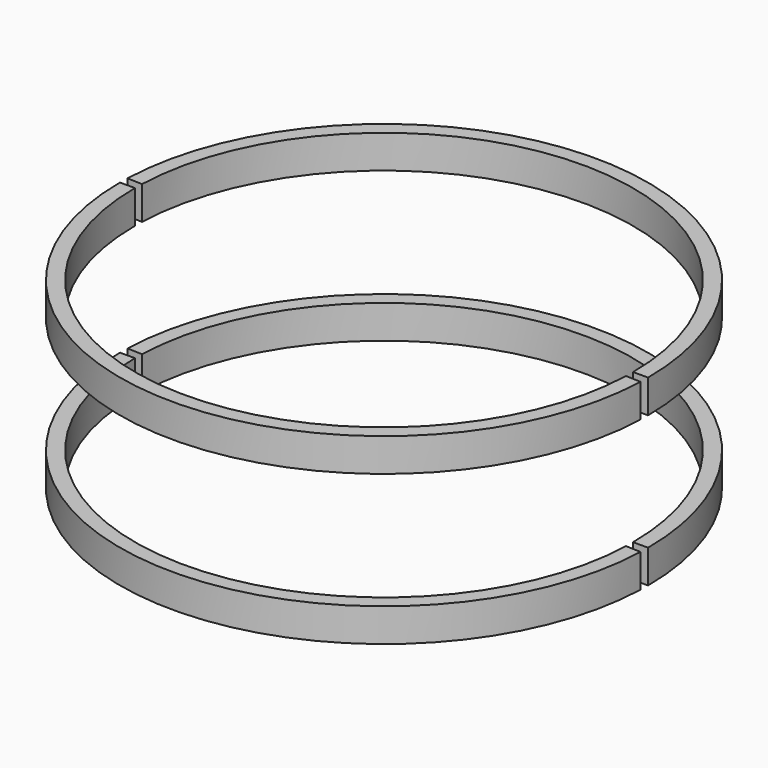
from build123d import *

# Parameters (mm, degrees)
CYLINDER070_R          = 22.45
CYLINDER070_DEPTH      = 17
CYLINDER069_W          = 23.8
CYLINDER069_H          = 3
CYLINDER069_ANGLE      = 178
CUT020_PLACEMENT_ANGLE = 180
CYLINDER068_R          = 22.45
CYLINDER068_DEPTH      = 17
CYLINDER067_W          = 23.8
CYLINDER067_H          = 3
CYLINDER067_ANGLE      = 178
CUT019_PLACEMENT_ANGLE = 180


with BuildPart() as cylinder070:
    # Cylinder070 → Cylinder070 (new body)
    with BuildSketch(Plane.XY):
        Circle(CYLINDER070_R)
    extrude(amount=CYLINDER070_DEPTH)


with BuildPart() as cylinder069:
    # Cylinder069 → Cylinder069 (revolve)
    with BuildSketch(Plane(origin=(0, 0, 1.8), x_dir=(1, 0, 0), z_dir=(0, -1, 0))):
        with Locations((11.9, 1.5)):
            Rectangle(CYLINDER069_W, CYLINDER069_H)
    revolve(axis=Axis((0, 0, 1.8), (0, 0, 1)), revolution_arc=CYLINDER069_ANGLE)


with BuildPart() as cut020:
    # Cut020 base: copy of Cylinder069
    add(cylinder069.part)

    # Cut020: cut Cylinder070
    add(cylinder070.part, mode=Mode.SUBTRACT)


with BuildPart() as cut020_1:
    # Cut020 placement: moved
    add(cut020.part.rotate(Axis((0, 0, 0), (0, 0, 1)), CUT020_PLACEMENT_ANGLE))


with BuildPart() as cylinder068:
    # Cylinder068 → Cylinder068 (new body)
    with BuildSketch(Plane.XY):
        Circle(CYLINDER068_R)
    extrude(amount=CYLINDER068_DEPTH)


with BuildPart() as cylinder067:
    # Cylinder067 → Cylinder067 (revolve)
    with BuildSketch(Plane(origin=(0, 0, 1.8), x_dir=(1, 0, 0), z_dir=(0, -1, 0))):
        with Locations((11.9, 1.5)):
            Rectangle(CYLINDER067_W, CYLINDER067_H)
    revolve(axis=Axis((0, 0, 1.8), (0, 0, 1)), revolution_arc=CYLINDER067_ANGLE)


with BuildPart() as fusion038:
    # Cut021 base: copy of Cylinder067
    add(cylinder067.part)

    # Cut021: cut Cylinder068
    add(cylinder068.part, mode=Mode.SUBTRACT)

    # Fusion038: union Cut020
    add(cut020_1.part)


with BuildPart() as cut019:
    # Cut019 base: copy of Cylinder069
    add(cylinder069.part)

    # Cut019: cut Cylinder070
    add(cylinder070.part, mode=Mode.SUBTRACT)


with BuildPart() as cut019_1:
    # Cut019 placement: moved
    add(cut019.part.rotate(Axis((0, 0, 0), (0, 0, 1)), CUT019_PLACEMENT_ANGLE))


with BuildPart() as rim_support_all:
    # Cut018 base: copy of Cylinder067
    add(cylinder067.part)

    # Cut018: cut Cylinder068
    add(cylinder068.part, mode=Mode.SUBTRACT)

    # Fusion037: union Cut019
    add(cut019_1.part)


with BuildPart() as rim_support_all_1:
    # Fusion037 placement: moved
    add(rim_support_all.part.moved(Location((0, 0, 13.5))))

    # Fusion036: union Fusion038
    add(fusion038.part)


solid = rim_support_all_1.part
